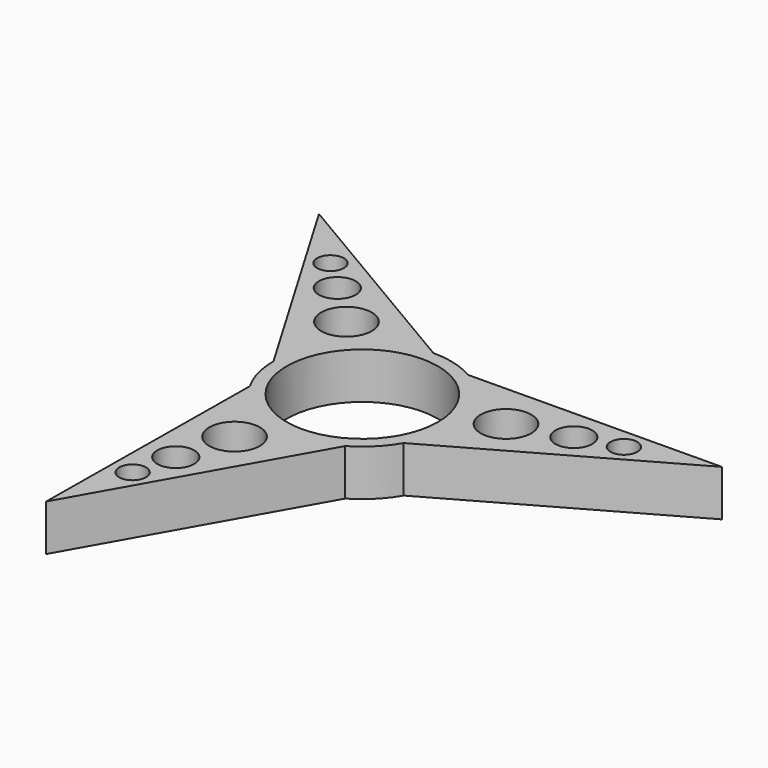
from build123d import *

# Parameters (mm, degrees)
F0_R     = 11.45
F0_R_2   = 3.826519
F0_R_3   = 2.794
F0_R_4   = 2.032
F1_DEPTH = 7


with BuildPart() as f1:
    # F0 (on Top) → F1 (new body)
    with BuildSketch(Plane.XY):
        with BuildLine():
            ThreePointArc((11.648042, -6.725), (12.991702, -3.481116), (13.45, 0))
            ThreePointArc((13.45, 0), (11.648042, 6.725), (6.725, 11.648042))
            ThreePointArc((6.725, 11.648042), (3.481116, 12.991702), (0, 13.45))
            ThreePointArc((0, 13.45), (-9.510586, 9.510586), (-13.45, 0))
            ThreePointArc((-13.45, 0), (-12.991702, -3.481116), (-11.648042, -6.725))
            ThreePointArc((-11.648042, -6.725), (-3.481116, -12.991702), (6.725, -11.648042))
            ThreePointArc((6.725, -11.648042), (9.510586, -9.510586), (11.648042, -6.725))
        make_face()
        Circle(F0_R, mode=Mode.SUBTRACT)
        with BuildLine():
            ThreePointArc((6.725, 11.648042), (11.648042, 6.725), (13.45, 0))
            ThreePointArc((13.45, 0), (12.991702, -3.481116), (11.648042, -6.725))
            Line((11.648042, -6.725), (44.823277, 12.010361))
            Line((44.823277, 12.010361), (6.725, 11.648042))
        make_face()
        with Locations((18.028694, 4.64322)):
            Circle(F0_R_2, mode=Mode.SUBTRACT)
        with Locations((26.411475, 7.009044)):
            Circle(F0_R_3, mode=Mode.SUBTRACT)
        with Locations((32.576921, 8.769555)):
            Circle(F0_R_4, mode=Mode.SUBTRACT)
        with BuildLine():
            ThreePointArc((-13.45, 0), (-9.510586, 9.510586), (0, 13.45))
            Line((0, 13.45), (-32.812916, 32.812916))
            Line((-32.812916, 32.812916), (-13.45, 0))
        make_face()
        with Locations((-13.035493, 13.291697)):
            Circle(F0_R_2, mode=Mode.SUBTRACT)
        with Locations((-19.275748, 19.368486)):
            Circle(F0_R_3, mode=Mode.SUBTRACT)
        with Locations((-23.883118, 23.827664)):
            Circle(F0_R_4, mode=Mode.SUBTRACT)
        with BuildLine():
            Line((-12.010361, -44.823277), (6.725, -11.648042))
            ThreePointArc((6.725, -11.648042), (-3.481116, -12.991702), (-11.648042, -6.725))
            Line((-11.648042, -6.725), (-12.010361, -44.823277))
        make_face()
        with Locations((-8.693803, -32.597219)):
            Circle(F0_R_4, mode=Mode.SUBTRACT)
        with Locations((-7.135727, -26.37753)):
            Circle(F0_R_3, mode=Mode.SUBTRACT)
        with Locations((-4.993201, -17.934917)):
            Circle(F0_R_2, mode=Mode.SUBTRACT)
    extrude(amount=F1_DEPTH)


solid = f1.part
